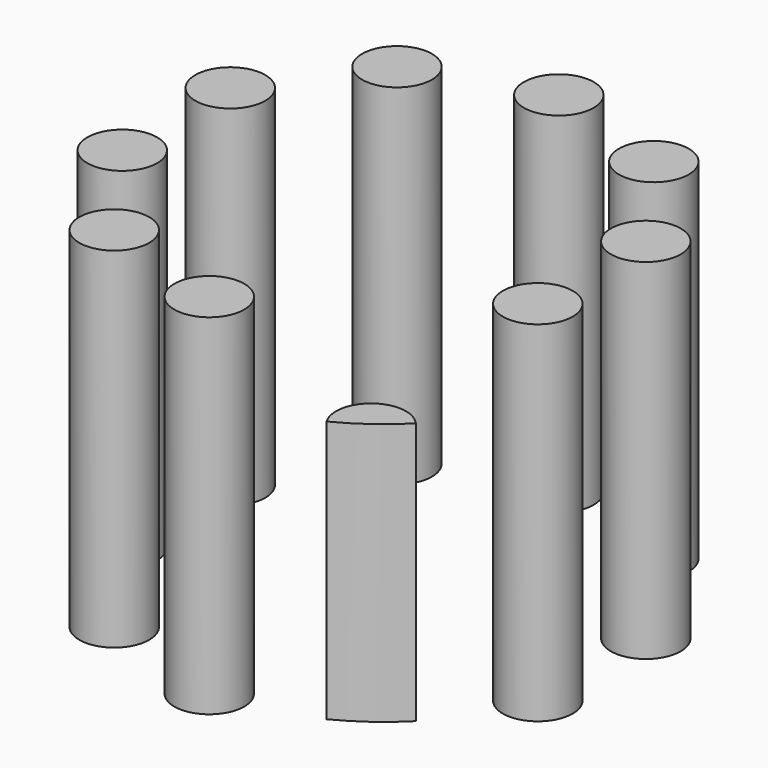
from build123d import *

# Parameters (mm, degrees)
F0_R     = 31.75
F1_DEPTH = 38.1
F2_R     = 5.08
F3_DEPTH = 50.8


with BuildPart() as f1:
    # F0 (on Top) → F1 (new body)
    with BuildSketch(Plane.XY):
        Circle(F0_R)
    extrude(amount=F1_DEPTH)


with BuildPart() as f3:
    # F2 (on Top) → F3 (new body)
    with BuildSketch(Plane.XY):
        with Locations((0, 31.75)):
            Circle(F2_R)
    extrude(amount=F3_DEPTH)


with BuildPart() as f3b:
    # F2 (on Top) → F3, piece 2 (new body)
    with BuildSketch(Plane.XY):
        with Locations((-18.6621817603, 25.6862895714)):
            Circle(F2_R)
    extrude(amount=F3_DEPTH)


with BuildPart() as f3c:
    # F2 (on Top) → F3, piece 3 (new body)
    with BuildSketch(Plane.XY):
        with Locations((-30.1960443924, 9.8112895714)):
            Circle(F2_R)
    extrude(amount=F3_DEPTH)


with BuildPart() as f3d:
    # F2 (on Top) → F3, piece 4 (new body)
    with BuildSketch(Plane.XY):
        with Locations((-30.1960443924, -9.8112895714)):
            Circle(F2_R)
    extrude(amount=F3_DEPTH)


with BuildPart() as f3e:
    # F2 (on Top) → F3, piece 5 (new body)
    with BuildSketch(Plane.XY):
        with Locations((-18.6621817603, -25.6862895714)):
            Circle(F2_R)
    extrude(amount=F3_DEPTH)


with BuildPart() as f3f:
    # F2 (on Top) → F3, piece 6 (new body)
    with BuildSketch(Plane.XY):
        with Locations((0, -31.75)):
            Circle(F2_R)
    extrude(amount=F3_DEPTH)


with BuildPart() as f3g:
    # F2 (on Top) → F3, piece 7 (new body)
    with BuildSketch(Plane.XY):
        with Locations((18.6621817603, -25.6862895714)):
            Circle(F2_R)
    extrude(amount=F3_DEPTH)


with BuildPart() as f3h:
    # F2 (on Top) → F3, piece 8 (new body)
    with BuildSketch(Plane.XY):
        with Locations((30.1960443924, -9.8112895714)):
            Circle(F2_R)
    extrude(amount=F3_DEPTH)


with BuildPart() as f3i:
    # F2 (on Top) → F3, piece 9 (new body)
    with BuildSketch(Plane.XY):
        with Locations((30.1960443924, 9.8112895714)):
            Circle(F2_R)
    extrude(amount=F3_DEPTH)


with BuildPart() as f3j:
    # F2 (on Top) → F3, piece 10 (new body)
    with BuildSketch(Plane.XY):
        with Locations((18.6621817603, 25.6862895714)):
            Circle(F2_R)
    extrude(amount=F3_DEPTH)


with BuildPart() as f1_1:
    add(f1.part)

    # F4: intersect F3g
    add(f3g.part, mode=Mode.INTERSECT)


solid = Compound([f3.part, f3b.part, f3c.part, f3d.part, f3e.part, f3f.part, f3h.part, f3i.part, f3j.part, f1_1.part])
